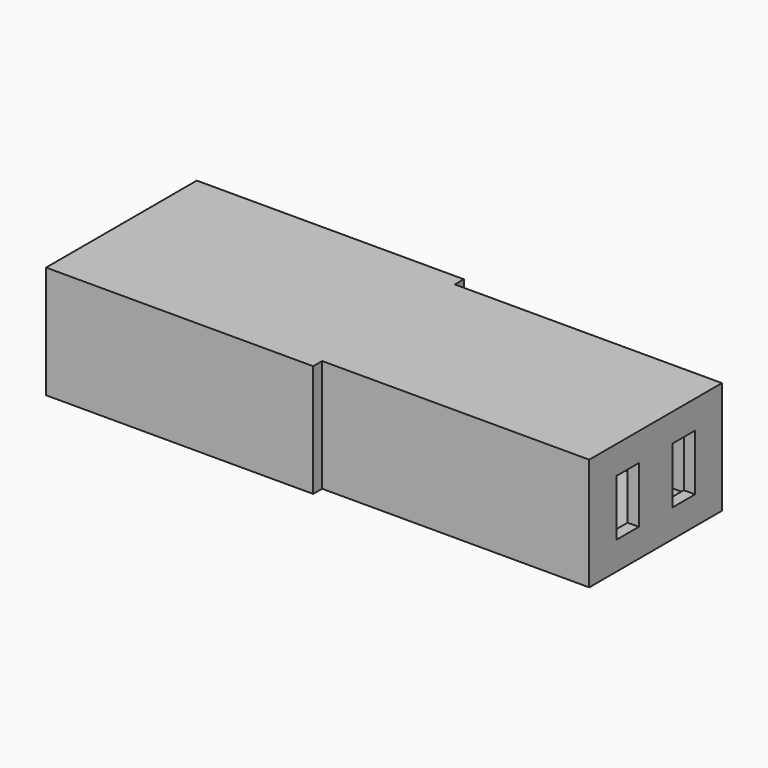
from build123d import *

# Parameters (mm, degrees)
F1_DEPTH = 4
F2_T     = -0.4
F3_W     = 1
F3_H     = 2
F4_DEPTH = 0.4


with BuildPart() as f1:
    # F0 (on Top) → F1 (new body)
    with BuildSketch(Plane.XY):
        Polygon((0, 3.35), (0, -3.35), (9.5, -3.35), (9.5, -2.95), (19, -2.95), (19, 2.95), (9.5, 2.95), (9.5, 3.35), align=None)
    extrude(amount=F1_DEPTH)

    # F2
    f2_openings = [f1.faces().sort_by_distance(p)[0] for p in [
        (0, 0, 2),
    ]]
    offset(amount=F2_T, openings=f2_openings, kind=Kind.INTERSECTION)

    # F3 (on face) → F4 (cut, through all)
    with BuildSketch(Plane.YZ.offset(19)):
        with Locations((-1.2436551969, 2)):
            Rectangle(F3_W, F3_H)
        with Locations((1.2563448031, 2)):
            Rectangle(F3_W, F3_H)
    extrude(amount=-F4_DEPTH, mode=Mode.SUBTRACT)


solid = f1.part
